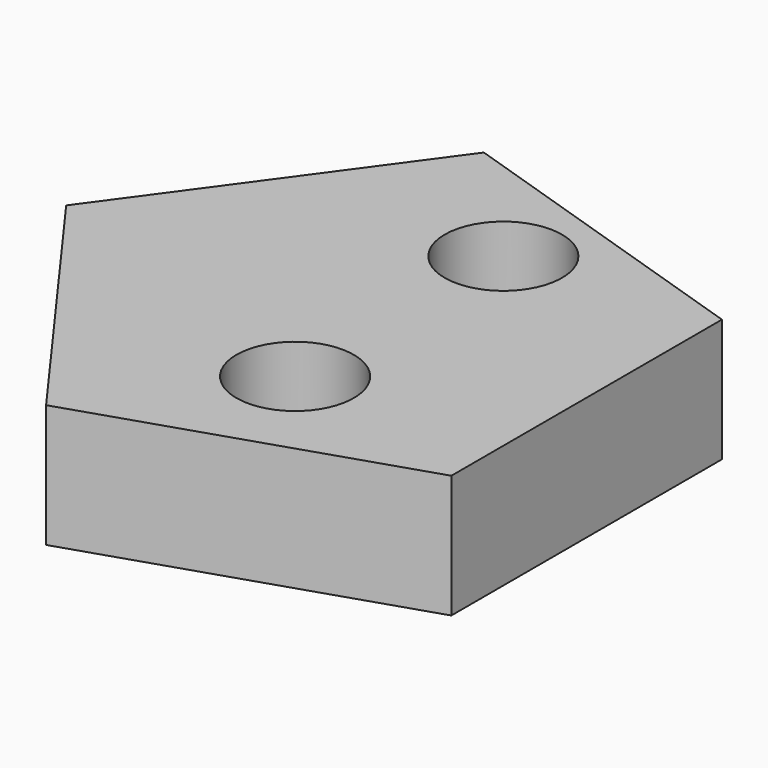
from build123d import *

# Parameters (mm, degrees)
F1_DEPTH = 25.4
F3_D     = 24.20874


with BuildPart() as f1:
    # F0 (on Top) → F1 (new body)
    with BuildSketch(Plane.XY):
        Polygon((48.0459555984, -34.9074300409), (48.0459555984, 34.9074300409), (-18.3519220166, 56.481408266), (-59.3880671635, 0), (-18.3519220166, -56.481408266), align=None)
    extrude(amount=F1_DEPTH)

    # F3 (through all)
    with Locations(Plane(origin=(0, 0, 0), x_dir=(1, 0, 0), z_dir=(0, 0, -1))):
        with Locations((6.7180017941, 23.5614608973), (6.7180017941, -30.1724821329)):
            Hole(F3_D / 2)


solid = f1.part
